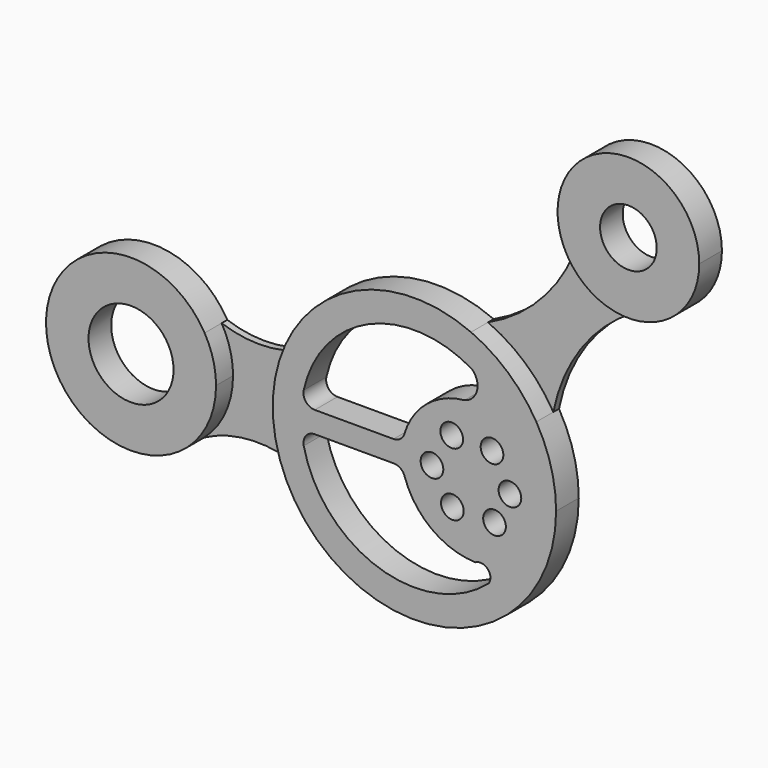
from build123d import *

# Parameters (mm, degrees)
F0_R     = 100
F0_R_2   = 40
F0_R_3   = 150
F1_DEPTH = 100
F2_DEPTH = 25


with BuildPart() as f1:
    # F0 (on Front) → F1 (new body)
    with BuildSketch(Plane.XZ):
        with BuildLine():
            ThreePointArc((1047.225497, 932.575154), (746.371976, 1177.348354), (567.914142, 832.994522))
            ThreePointArc((567.914142, 832.994522), (664.756142, 720.556593), (808.271147, 682.819286))
            ThreePointArc((808.271147, 682.819286), (977.865211, 759.747801), (1047.225497, 932.575154))
        make_face()
        with Locations((797.225497, 932.575154)):
            Circle(F0_R, mode=Mode.SUBTRACT)
        with BuildLine():
            ThreePointArc((241.815581, 458.355897), (-165.324477, 454.972029), (-434.960902, 149.897161))
            ThreePointArc((-434.960902, 149.897161), (-456.790816, -34.158339), (-410.075304, -213.520076))
            ThreePointArc((-410.075304, -213.520076), (151.452714, -487.882243), (542.041028, 0))
            ThreePointArc((542.041028, 0), (524.302782, 131.998484), (472.346628, 254.631283))
            ThreePointArc((472.346628, 254.631283), (373.139472, 374.664944), (241.815581, 458.355897))
        make_face()
        with BuildLine():
            ThreePointArc((-348.456891, -86.66819), (-340.605439, -52.968121), (-309.407099, -38.001371))
            Line((-309.407099, -38.001371), (-30.592021, -38.001371))
            ThreePointArc((-30.592021, -38.001371), (-7.111254, -45.61845), (7.42677, -65.568692))
            ThreePointArc((7.42677, -65.568692), (102.985935, -198.344216), (257.671505, -251.572669))
            ThreePointArc((257.671505, -251.572669), (301.078235, -258.448966), (303.984206, -302.300796))
            ThreePointArc((303.984206, -302.300796), (-83.481622, -379.794766), (-348.456891, -86.66819))
        make_face(mode=Mode.SUBTRACT)
        with Locations((175.95619, -106.15138)):
            Circle(F0_R_2, mode=Mode.SUBTRACT)
        with Locations((324.763507, -106.15138)):
            Circle(F0_R_2, mode=Mode.SUBTRACT)
        with Locations((104.061022, 0)):
            Circle(F0_R_2, mode=Mode.SUBTRACT)
        with Locations((173.735186, 115.949109)):
            Circle(F0_R_2, mode=Mode.SUBTRACT)
        with Locations((379.116327, 0)):
            Circle(F0_R_2, mode=Mode.SUBTRACT)
        with Locations((315.879494, 113.728099)):
            Circle(F0_R_2, mode=Mode.SUBTRACT)
        with BuildLine():
            ThreePointArc((-348.575385, 86.13256), (-117.85863, 366.649832), (244.695554, 344.863948))
            ThreePointArc((244.695554, 344.863948), (263.21358, 284.40211), (218.781874, 239.409059))
            ThreePointArc((218.781874, 239.409059), (86.318197, 185.025546), (6.762126, 65.966637))
            ThreePointArc((6.762126, 65.966637), (-7.680648, 45.409285), (-31.533251, 37.519304))
            Line((-31.533251, 37.519304), (-309.513744, 37.519304))
            ThreePointArc((-309.513744, 37.519304), (-340.69491, 52.464666), (-348.575385, 86.13256))
        make_face(mode=Mode.SUBTRACT)
        with BuildLine():
            ThreePointArc((-657.958972, 0), (-668.208095, 77.745926), (-698.255166, 150.179668))
            ThreePointArc((-698.255166, 150.179668), (-1254.031116, 48.386834), (-759.577695, -225.044148))
            ThreePointArc((-759.577695, -225.044148), (-684.541358, -123.461769), (-657.958972, 0))
        make_face()
        with Locations((-957.958972, 0)):
            Circle(F0_R_3, mode=Mode.SUBTRACT)
    extrude(amount=F1_DEPTH)


with BuildPart() as f2:
    # F0 (on Front) → F2 (new body)
    with BuildSketch(Plane.XZ):
        with BuildLine():
            ThreePointArc((-434.960902, 149.897161), (-566.631945, 127.753946), (-698.255166, 150.179668))
            ThreePointArc((-698.255166, 150.179668), (-668.208095, 77.745926), (-657.958972, 0))
            ThreePointArc((-657.958972, 0), (-684.541358, -123.461769), (-759.577695, -225.044148))
            ThreePointArc((-759.577695, -225.044148), (-586.152532, -179.066137), (-410.075304, -213.520076))
            ThreePointArc((-410.075304, -213.520076), (-456.790816, -34.158339), (-434.960902, 149.897161))
        make_face()
        with BuildLine():
            ThreePointArc((567.914142, 832.994522), (445.450703, 610.347873), (241.815581, 458.355897))
            ThreePointArc((241.815581, 458.355897), (373.139472, 374.664944), (472.346628, 254.631283))
            ThreePointArc((472.346628, 254.631283), (588.968218, 509.003362), (808.271147, 682.819286))
            ThreePointArc((808.271147, 682.819286), (664.756142, 720.556593), (567.914142, 832.994522))
        make_face()
    extrude(amount=F2_DEPTH)


solid = Compound([f1.part, f2.part])
